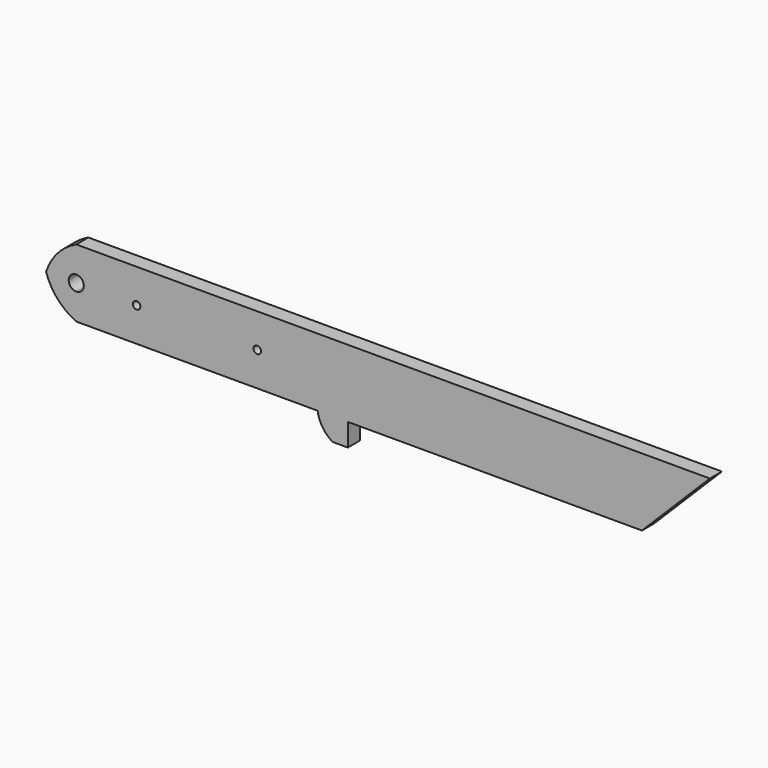
from build123d import *

# Parameters (mm, degrees)
F1_DEPTH = 6.35


with BuildPart() as f1:
    # F0 (on Front) → F1 (new body)
    with BuildSketch(Plane.XZ):
        with BuildLine():
            Line((-127, 1.5875), (-127, -9.525))
            Line((-127, -9.525), (-25.4, -9.525))
            Line((-25.4, -9.525), (-25.4, 4.7625))
            Line((-25.4, 4.7625), (-49.2125, 4.7625))
            ThreePointArc((-49.2125, 4.7625), (-50.8, 3.175), (-52.3875, 4.7625))
            Line((-52.3875, 4.7625), (-100.0125, 4.7625))
            ThreePointArc((-100.0125, 4.7625), (-101.6, 3.175), (-103.1875, 4.7625))
            Line((-103.1875, 4.7625), (-123.825, 4.7625))
            ThreePointArc((-123.825, 4.7625), (-124.7549359697, 2.5174359697), (-127, 1.5875))
        make_face()
        with BuildLine():
            Line((-25.4, 19.05), (-127, 19.05))
            Line((-127, 19.05), (-127, 7.9375))
            ThreePointArc((-127, 7.9375), (-124.7549359697, 7.0075640303), (-123.825, 4.7625))
            Line((-123.825, 4.7625), (-103.1875, 4.7625))
            ThreePointArc((-103.1875, 4.7625), (-101.6, 6.35), (-100.0125, 4.7625))
            Line((-100.0125, 4.7625), (-52.3875, 4.7625))
            ThreePointArc((-52.3875, 4.7625), (-50.8, 6.35), (-49.2125, 4.7625))
            Line((-49.2125, 4.7625), (-25.4, 4.7625))
            Line((-25.4, 4.7625), (-25.4, 19.05))
        make_face()
        with BuildLine():
            Line((-127, 7.9375), (-127, 19.05))
            ThreePointArc((-127, 19.05), (-134.856835688, 13.2456595004), (-139.7, 4.7625))
            Line((-139.7, 4.7625), (-130.175, 4.7625))
            ThreePointArc((-130.175, 4.7625), (-129.2450640303, 7.0075640303), (-127, 7.9375))
        make_face()
        with BuildLine():
            Line((-130.175, 4.7625), (-139.7, 4.7625))
            ThreePointArc((-139.7, 4.7625), (-134.856835688, -3.7206595004), (-127, -9.525))
            Line((-127, -9.525), (-127, 1.5875))
            ThreePointArc((-127, 1.5875), (-129.2450640303, 2.5174359697), (-130.175, 4.7625))
        make_face()
        Polygon((-12.7, 19.05), (-19.05, 19.05), (-19.05, -19.05), (-12.7, -19.05), (-12.7, -9.525), (-12.7, 4.7625), align=None)
        with BuildLine():
            Line((-19.05, 19.05), (-25.4, 19.05))
            Line((-25.4, 19.05), (-25.4, 4.7625))
            Line((-25.4, 4.7625), (-25.4, -9.525))
            ThreePointArc((-25.4, -9.525), (-23.3236183324, -15.0199122216), (-19.05, -19.05))
            Line((-19.05, -19.05), (-19.05, 19.05))
        make_face()
        Polygon((139.7, 19.05), (119.4944237276, 19.05), (105.2069237276, 4.7625), (-12.7, 4.7625), (-12.7, -9.525), (111.125, -9.525), align=None)
        Polygon((119.4944237276, 19.05), (-12.7, 19.05), (-12.7, 4.7625), (105.2069237276, 4.7625), align=None)
    extrude(amount=F1_DEPTH)


solid = f1.part
